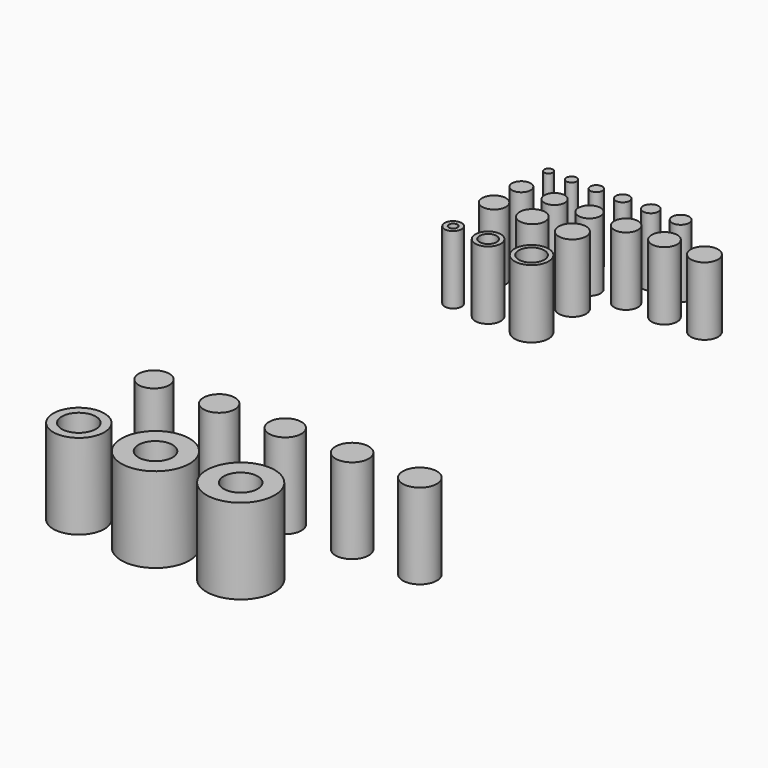
from build123d import *

# Parameters (mm, degrees)
F0_R     = 1.25
F1_DEPTH = 20
F0_R_2   = 1.5
F0_R_3   = 1.75
F0_R_4   = 2
F0_R_5   = 2.25
F0_R_6   = 2.5
F0_R_7   = 2.75
F0_R_8   = 3
F0_R_9   = 3.25
F0_R_10  = 3.5
F0_R_11  = 3.75
F0_R_12  = 4
F0_R_13  = 5
F2_R     = 7.5
F2_R_2   = 5
F3_DEPTH = 25
F2_R_3   = 10
F2_R_4   = 4.5
F2_R_5   = 4.625
F2_R_6   = 4.75
F2_R_7   = 4.875


with BuildPart() as f1:
    # F0 (on Top) → F1 (new body)
    with BuildSketch(Plane.XY):
        Circle(F0_R)
    extrude(amount=F1_DEPTH)


with BuildPart() as f1b:
    # F0 (on Top) → F1, piece 2 (new body)
    with BuildSketch(Plane.XY):
        with Locations((6.75, 0)):
            Circle(F0_R_2)
    extrude(amount=F1_DEPTH)


with BuildPart() as f1c:
    # F0 (on Top) → F1, piece 3 (new body)
    with BuildSketch(Plane.XY):
        with Locations((14, 0)):
            Circle(F0_R_3)
    extrude(amount=F1_DEPTH)


with BuildPart() as f1d:
    # F0 (on Top) → F1, piece 4 (new body)
    with BuildSketch(Plane.XY):
        with Locations((21.75, 0)):
            Circle(F0_R_4)
    extrude(amount=F1_DEPTH)


with BuildPart() as f1e:
    # F0 (on Top) → F1, piece 5 (new body)
    with BuildSketch(Plane.XY):
        with Locations((30, 0)):
            Circle(F0_R_5)
    extrude(amount=F1_DEPTH)


with BuildPart() as f1f:
    # F0 (on Top) → F1, piece 6 (new body)
    with BuildSketch(Plane.XY):
        with Locations((38.75, 0)):
            Circle(F0_R_6)
    extrude(amount=F1_DEPTH)


with BuildPart() as f1g:
    # F0 (on Top) → F1, piece 7 (new body)
    with BuildSketch(Plane.XY):
        with Locations((0, -10)):
            Circle(F0_R_7)
    extrude(amount=F1_DEPTH)


with BuildPart() as f1h:
    # F0 (on Top) → F1, piece 8 (new body)
    with BuildSketch(Plane.XY):
        with Locations((9.75, -10)):
            Circle(F0_R_8)
    extrude(amount=F1_DEPTH)


with BuildPart() as f1i:
    # F0 (on Top) → F1, piece 9 (new body)
    with BuildSketch(Plane.XY):
        with Locations((20, -10)):
            Circle(F0_R_9)
    extrude(amount=F1_DEPTH)


with BuildPart() as f1j:
    # F0 (on Top) → F1, piece 10 (new body)
    with BuildSketch(Plane.XY):
        with Locations((30.75, -10)):
            Circle(F0_R_10)
    extrude(amount=F1_DEPTH)


with BuildPart() as f1k:
    # F0 (on Top) → F1, piece 11 (new body)
    with BuildSketch(Plane.XY):
        with Locations((42, -10)):
            Circle(F0_R_11)
    extrude(amount=F1_DEPTH)


with BuildPart() as f1l:
    # F0 (on Top) → F1, piece 12 (new body)
    with BuildSketch(Plane.XY):
        with Locations((53.75, -10)):
            Circle(F0_R_12)
    extrude(amount=F1_DEPTH)


with BuildPart() as f1m:
    # F0 (on Top) → F1, piece 13 (new body)
    with BuildSketch(Plane.XY):
        with Locations((23, -20)):
            Circle(F0_R_12)
    extrude(amount=F1_DEPTH)


with BuildPart() as f1n:
    # F0 (on Top) → F1, piece 14 (new body)
    with BuildSketch(Plane.XY):
        with Locations((11.25, -20)):
            Circle(F0_R_11)
        with Locations((11.25, -20)):
            Circle(F0_R_11)
    extrude(amount=F1_DEPTH)


with BuildPart() as f1o:
    # F0 (on Top) → F1, piece 15 (new body)
    with BuildSketch(Plane.XY):
        with Locations((0, -20)):
            Circle(F0_R_10)
    extrude(amount=F1_DEPTH)


with BuildPart() as f1p:
    # F0 (on Top) → F1, piece 16 (new body)
    with BuildSketch(Plane.XY):
        with Locations((0, -35)):
            Circle(F0_R_6)
        with Locations((0, -35)):
            Circle(F0_R, mode=Mode.SUBTRACT)
    extrude(amount=F1_DEPTH)


with BuildPart() as f1q:
    # F0 (on Top) → F1, piece 17 (new body)
    with BuildSketch(Plane.XY):
        with Locations((10.25, -35)):
            Circle(F0_R_11)
        with Locations((10.25, -35)):
            Circle(F0_R_6, mode=Mode.SUBTRACT)
    extrude(amount=F1_DEPTH)


with BuildPart() as f1r:
    # F0 (on Top) → F1, piece 18 (new body)
    with BuildSketch(Plane.XY):
        with Locations((23, -35)):
            Circle(F0_R_13)
        with Locations((23, -35)):
            Circle(F0_R_11, mode=Mode.SUBTRACT)
    extrude(amount=F1_DEPTH)


with BuildPart() as f3:
    # F2 (on Top) → F3 (new body)
    with BuildSketch(Plane.XY):
        with Locations((0, -172.3042173794)):
            Circle(F2_R)
        with Locations((0, -172.3042173794)):
            Circle(F2_R_2, mode=Mode.SUBTRACT)
    extrude(amount=F3_DEPTH)


with BuildPart() as f3b:
    # F2 (on Top) → F3, piece 2 (new body)
    with BuildSketch(Plane.XY):
        with Locations((22.5, -172.3042173794)):
            Circle(F2_R_3)
        with Locations((22.5, -172.3042173794)):
            Circle(F2_R_2, mode=Mode.SUBTRACT)
    extrude(amount=F3_DEPTH)


with BuildPart() as f3c:
    # F2 (on Top) → F3, piece 3 (new body)
    with BuildSketch(Plane.XY):
        with Locations((47.5, -172.3042173794)):
            Circle(F2_R_3)
        with Locations((47.5, -172.3042173794)):
            Circle(F2_R_2, mode=Mode.SUBTRACT)
    extrude(amount=F3_DEPTH)


with BuildPart() as f3d:
    # F2 (on Top) → F3, piece 4 (new body)
    with BuildSketch(Plane.XY):
        with Locations((0, -144.7150607587)):
            Circle(F2_R_4)
    extrude(amount=F3_DEPTH)


with BuildPart() as f3e:
    # F2 (on Top) → F3, piece 5 (new body)
    with BuildSketch(Plane.XY):
        with Locations((19.125, -144.7150607587)):
            Circle(F2_R_5)
    extrude(amount=F3_DEPTH)


with BuildPart() as f3f:
    # F2 (on Top) → F3, piece 6 (new body)
    with BuildSketch(Plane.XY):
        with Locations((38.5, -144.7150607587)):
            Circle(F2_R_6)
    extrude(amount=F3_DEPTH)


with BuildPart() as f3g:
    # F2 (on Top) → F3, piece 7 (new body)
    with BuildSketch(Plane.XY):
        with Locations((58.125, -144.7150607587)):
            Circle(F2_R_7)
    extrude(amount=F3_DEPTH)


with BuildPart() as f3h:
    # F2 (on Top) → F3, piece 8 (new body)
    with BuildSketch(Plane.XY):
        with Locations((78, -144.7150607587)):
            Circle(F2_R_2)
    extrude(amount=F3_DEPTH)


solid = Compound([f1.part, f1b.part, f1c.part, f1d.part, f1e.part, f1f.part, f1g.part, f1h.part, f1i.part, f1j.part, f1k.part, f1l.part, f1m.part, f1n.part, f1o.part, f1p.part, f1q.part, f1r.part, f3.part, f3b.part, f3c.part, f3d.part, f3e.part, f3f.part, f3g.part, f3h.part])
